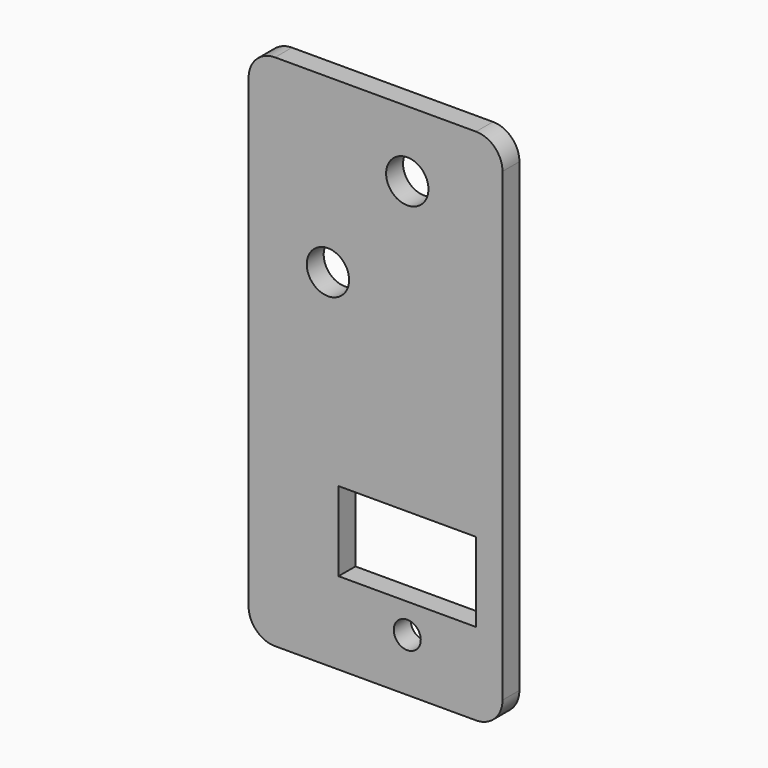
from build123d import *

# Parameters (mm, degrees)
F0_R     = 2.55
F0_W     = 26
F0_H     = 15
F0_R_2   = 4
F1_DEPTH = 4


with BuildPart() as f1:
    # F0 (on Front) → F1 (new body)
    with BuildSketch(Plane.XZ):
        with BuildLine():
            Line((-17.5, 93), (-17.5, 5))
            ThreePointArc((-17.5, 5), (-16.035534, 1.464466), (-12.5, 0))
            Line((-12.5, 0), (25.5, 0))
            ThreePointArc((25.5, 0), (29.035534, 1.464466), (30.5, 5))
            Line((30.5, 5), (30.5, 93))
            ThreePointArc((30.5, 93), (29.035534, 96.535534), (25.5, 98))
            Line((25.5, 98), (-12.5, 98))
            ThreePointArc((-12.5, 98), (-16.035534, 96.535534), (-17.5, 93))
        make_face()
        with Locations((12.5, 10)):
            Circle(F0_R, mode=Mode.SUBTRACT)
        with Locations((12.5, 23.05)):
            Rectangle(F0_W, F0_H, mode=Mode.SUBTRACT)
        with Locations((-2.5, 65.5)):
            Circle(F0_R_2, mode=Mode.SUBTRACT)
        with Locations((12.5, 85.5)):
            Circle(F0_R_2, mode=Mode.SUBTRACT)
    extrude(amount=F1_DEPTH)


solid = f1.part
